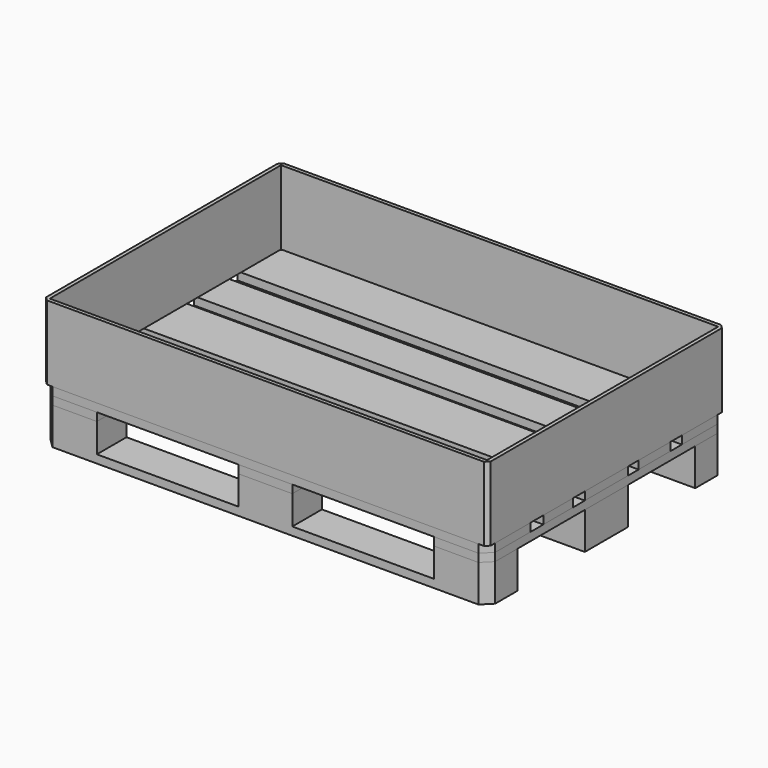
from build123d import *

# Parameters (mm, degrees)
F0_W       = 1200
F0_H       = 100
F1_DEPTH   = 22
F0_H_2     = 72.5
F2_W       = 145
F2_H       = 100
F2_W_2     = 72.5
F3_DEPTH   = 78
F4_W       = 145
F4_H       = 145
F5_DEPTH   = 78
F6_W       = 145
F6_H       = 100
F7_DEPTH   = 78
F8_W       = 145
F8_H       = 800
F9_DEPTH   = 22
F10_W      = 145
F10_H      = 800
F11_DEPTH  = 22
F12_W      = 145
F12_H      = 800
F13_DEPTH  = 22
F14_W      = 1200
F14_H      = 145
F15_DEPTH  = 22
F16_W      = 1200
F16_H      = 145
F17_DEPTH  = 22
F18_W      = 1200
F18_H      = 145
F19_DEPTH  = 22
F20_W      = 1200
F20_H      = 107.1627608397
F21_DEPTH  = 22
F22_W      = 1200
F22_H      = 100
F23_DEPTH  = 22
F24_SIZE   = 25
F24_2_SIZE = 25
F24_3_SIZE = 25
F24_4_SIZE = 25
F24_5_SIZE = 25
F24_6_SIZE = 25
F26_DEPTH  = 200
F27_SIZE   = 10


with BuildPart() as f1:
    # F0 (on Top) → F1 (new body)
    with BuildSketch(Plane.XY):
        with Locations((0, 350)):
            Rectangle(F0_W, F0_H)
    extrude(amount=F1_DEPTH)

    # F2 (on face) → F3 (join)
    with BuildSketch(Plane.XY.offset(22)):
        with Locations((-527.5, 350)):
            Rectangle(F2_W, F2_H)
        with Locations((-36.25, 350)):
            Rectangle(F2_W_2, F2_H)
        with Locations((36.25, 350)):
            Rectangle(F2_W_2, F2_H)
        with Locations((527.5, 350)):
            Rectangle(F2_W, F2_H)
    extrude(amount=F3_DEPTH)

    # F24#6
    f24_6_edges = [f1.edges().sort_by_distance(p)[0] for p in [
        (600, 400, 50),
        (-600, 400, 50),
    ]]
    chamfer(f24_6_edges, length=F24_6_SIZE)


with BuildPart() as f1b:
    # F0 (on Top) → F1, piece 2 (new body)
    with BuildSketch(Plane.XY):
        with Locations((0, 36.25)):
            Rectangle(F0_W, F0_H_2)
        with Locations((0, -36.25)):
            Rectangle(F0_W, F0_H_2)
    extrude(amount=F1_DEPTH)

    # F4 (on face) → F5 (join)
    with BuildSketch(Plane.XY.offset(22)):
        with Locations((-527.5, 0)):
            Rectangle(F4_W, F4_H)
        Rectangle(F4_W, F4_H)
        with Locations((527.5, 0)):
            Rectangle(F4_W, F4_H)
    extrude(amount=F5_DEPTH)


with BuildPart() as f1c:
    # F0 (on Top) → F1, piece 3 (new body)
    with BuildSketch(Plane.XY):
        with Locations((0, -350)):
            Rectangle(F0_W, F0_H)
    extrude(amount=F1_DEPTH)

    # F6 (on face) → F7 (join)
    with BuildSketch(Plane.XY.offset(22)):
        with Locations((-527.5, -350)):
            Rectangle(F6_W, F6_H)
        with Locations((0, -350)):
            Rectangle(F6_W, F6_H)
        with Locations((527.5, -350)):
            Rectangle(F6_W, F6_H)
    extrude(amount=F7_DEPTH)

    # F24#3
    f24_3_edges = [f1c.edges().sort_by_distance(p)[0] for p in [
        (-600, -400, 50),
        (600, -400, 50),
    ]]
    chamfer(f24_3_edges, length=F24_3_SIZE)


with BuildPart() as f9:
    # F8 (on face) → F9 (new body)
    with BuildSketch(Plane.XY.offset(100)):
        with Locations((-527.5, 0)):
            Rectangle(F8_W, F8_H)
    extrude(amount=F9_DEPTH)

    # F24#2
    f24_2_edges = [f9.edges().sort_by_distance(p)[0] for p in [
        (-600, -400, 111),
        (-600, 400, 111),
    ]]
    chamfer(f24_2_edges, length=F24_2_SIZE)


with BuildPart() as f11:
    # F10 (on face) → F11 (new body)
    with BuildSketch(Plane.XY.offset(100)):
        Rectangle(F10_W, F10_H)
    extrude(amount=F11_DEPTH)


with BuildPart() as f13:
    # F12 (on face) → F13 (new body)
    with BuildSketch(Plane.XY.offset(100)):
        with Locations((527.5, 0)):
            Rectangle(F12_W, F12_H)
    extrude(amount=F13_DEPTH)

    # F24#4
    f24_4_edges = [f13.edges().sort_by_distance(p)[0] for p in [
        (600, -400, 111),
        (600, 400, 111),
    ]]
    chamfer(f24_4_edges, length=F24_4_SIZE)


with BuildPart() as f15:
    # F14 (on face) → F15 (new body)
    with BuildSketch(Plane.XY.offset(122)):
        with Locations((0, 327.5)):
            Rectangle(F14_W, F14_H)
    extrude(amount=F15_DEPTH)

    # F24#5
    f24_5_edges = [f15.edges().sort_by_distance(p)[0] for p in [
        (600, 400, 133),
        (-600, 400, 133),
    ]]
    chamfer(f24_5_edges, length=F24_5_SIZE)


with BuildPart() as f17:
    # F16 (on face) → F17 (new body)
    with BuildSketch(Plane.XY.offset(122)):
        Rectangle(F16_W, F16_H)
    extrude(amount=F17_DEPTH)


with BuildPart() as f19:
    # F18 (on face) → F19 (new body)
    with BuildSketch(Plane.XY.offset(122)):
        with Locations((0, -327.5)):
            Rectangle(F18_W, F18_H)
    extrude(amount=F19_DEPTH)

    # F24
    f24_edges = [f19.edges().sort_by_distance(p)[0] for p in [
        (-600, -400, 133),
        (600, -400, 133),
    ]]
    chamfer(f24_edges, length=F24_SIZE)


with BuildPart() as f21:
    # F20 (on face) → F21 (new body)
    with BuildSketch(Plane.XY.offset(122)):
        with Locations((0, 162.5)):
            Rectangle(F20_W, F20_H)
    extrude(amount=F21_DEPTH)


with BuildPart() as f23:
    # F22 (on face) → F23 (new body)
    with BuildSketch(Plane.XY.offset(122)):
        with Locations((0, -162.5)):
            Rectangle(F22_W, F22_H)
    extrude(amount=F23_DEPTH)


with BuildPart() as f26:
    # F25 (on face) → F26 (new body)
    with BuildSketch(Plane.XY.offset(144)):
        Polygon((575, 400), (-575, 400), (-585, 390), (585, 390), align=None)
        Polygon((-575, 400), (-600, 400), (-600, 375), (-590, 385), (-590, 390), (-585, 390), align=None)
        Polygon((-590, 385), (-600, 375), (-600, 255), (-590, 255), align=None)
        Polygon((600.0311231613, 400), (575, 400), (585, 390), (590.0311231613, 390), (590.0311231613, 384.9688768387), (600, 375), (600, 255), (590.0311231613, 255), (590.0311231613, -390.0209569931), (-590, -390.0209569931), (-590, 255), (-600, 255), (-600, -400.0209569931), (600.0311231613, -400.0209569931), align=None)
        Polygon((600, 375), (590.0311231613, 384.9688768387), (590.0311231613, 255), (600, 255), align=None)
    extrude(amount=F26_DEPTH)

    # F27
    f27_edges = [f26.edges().sort_by_distance(p)[0] for p in [
        (600.031123, -400.020957, 244),
        (600.031123, 400, 244),
        (-600, -400.020957, 244),
        (-600, 400, 244),
    ]]
    chamfer(f27_edges, length=F27_SIZE)


solid = Compound([f1.part, f1b.part, f1c.part, f9.part, f11.part, f13.part, f15.part, f17.part, f19.part, f21.part, f23.part, f26.part])
